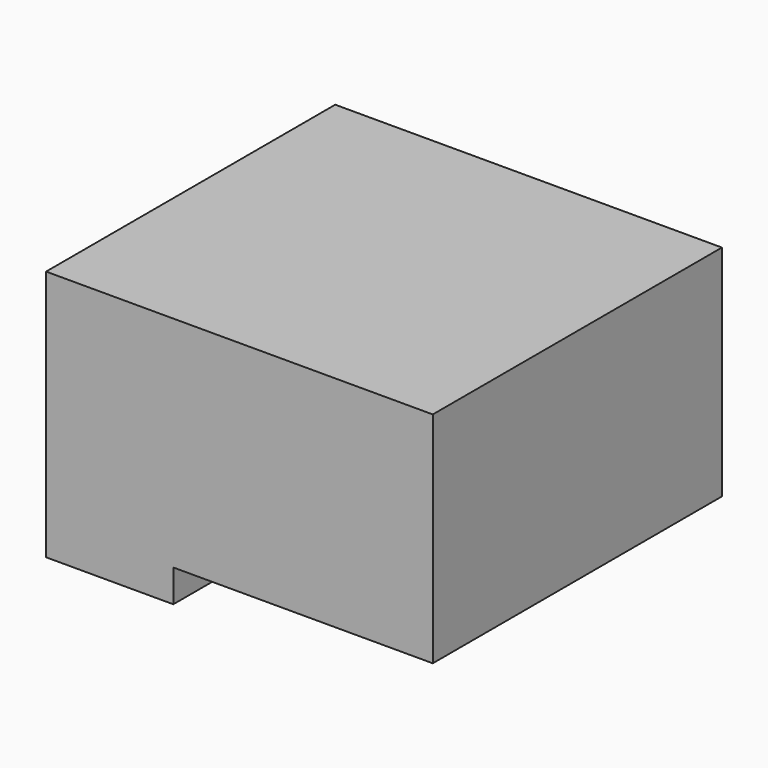
from build123d import *

# Parameters (mm, degrees)
F1_DEPTH      = 50.8
F1_DEPTH_BACK = 25.4


with BuildPart() as f1:
    # F0 (on Front) → F1 (new body, two sides)
    with BuildSketch(Plane.XZ) as f1_sk:
        Polygon((-19.007457, 58.110539), (-100.5354, 58.110539), (-100.5354, 5.079421), (-73.713064, 5.079421), (-73.713064, 11.915244), (-19.007457, 11.915244), align=None)
    extrude(amount=F1_DEPTH)
    extrude(f1_sk.sketch, amount=-F1_DEPTH_BACK)


solid = f1.part
